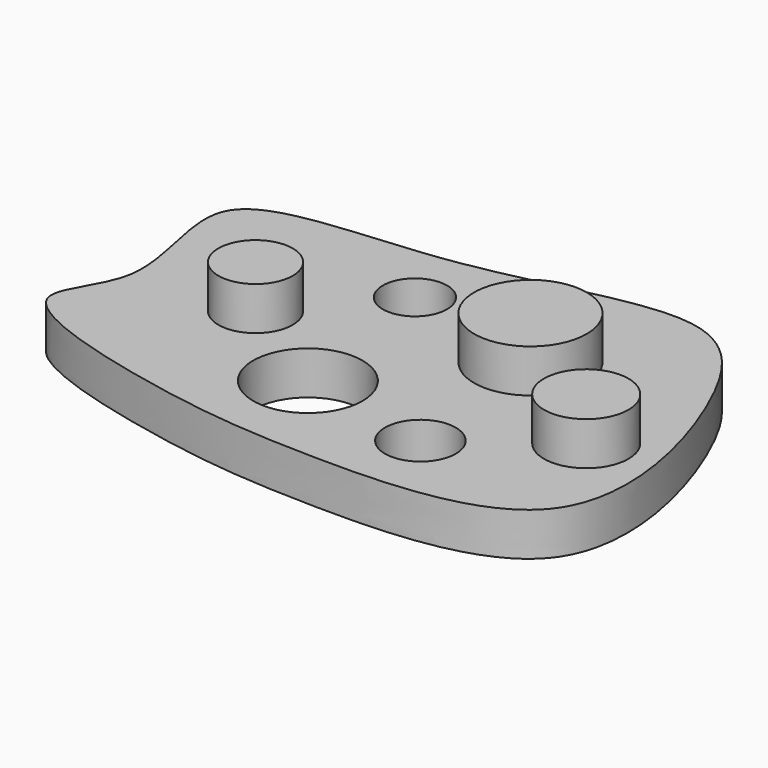
from build123d import *

# Parameters (mm, degrees)
F1_DEPTH = 25
F2_R     = 21.5146851909
F2_R_2   = 32.5778554378
F2_R_3   = 24.4471757635
F3_DEPTH = 25
F4_R     = 18.6167597932
F4_R_2   = 31.6424104227
F4_R_3   = 20.4878376905
F5_DEPTH = 25


with BuildPart() as f1:
    # F0 (on Top) → F1 (new body)
    with BuildSketch(Plane.XY):
        with BuildLine():
            add(Edge.make_bspline(
                [(-166.4270162582, 28.0509088188), (-162.6832744297, 52.0234295311), (-201.9646748818, 126.8284105922), (-55.5414983799, 118.3382113732), (66.2682850419, 167.5992862057), (120.1354614168, 102.3018650345), (163.4805482306, -58.2460568809), (-0.8445289314, -62.2716794262), (-81.534349957, -55.0223225704), (-207.5458817764, -21.3889709696), (-169.3039567905, 9.6288274745), (-166.4270162582, 28.0509088188)],
                knots=[0, 0, 0, 0, 0.0987311276, 0.2185819092, 0.3469418507, 0.4439168215, 0.5726177987, 0.698146292, 0.813598592, 0.9241284266, 1, 1, 1, 1], degree=3))
        make_face()
    extrude(amount=F1_DEPTH)

    # F2 (on face) → F3 (join)
    with BuildSketch(Plane.XY.offset(25)):
        with Locations((-99.8530089855, 34.7280688584)):
            Circle(F2_R)
        with Locations((28.3689238131, 73.2891485095)):
            Circle(F2_R_2)
        with Locations((97.5881293416, 27.1165780723)):
            Circle(F2_R_3)
    extrude(amount=F3_DEPTH)

    # F4 (on face) → F5 (cut)
    with BuildSketch(Plane.XY.offset(25)):
        with Locations((-52.0311184227, 90.2372896671)):
            Circle(F4_R)
        with Locations((-38.8670824468, -3.6661878694)):
            Circle(F4_R_2)
        with Locations((37.4843403697, -17.7078265697)):
            Circle(F4_R_3)
    extrude(amount=-F5_DEPTH, mode=Mode.SUBTRACT)


solid = f1.part
